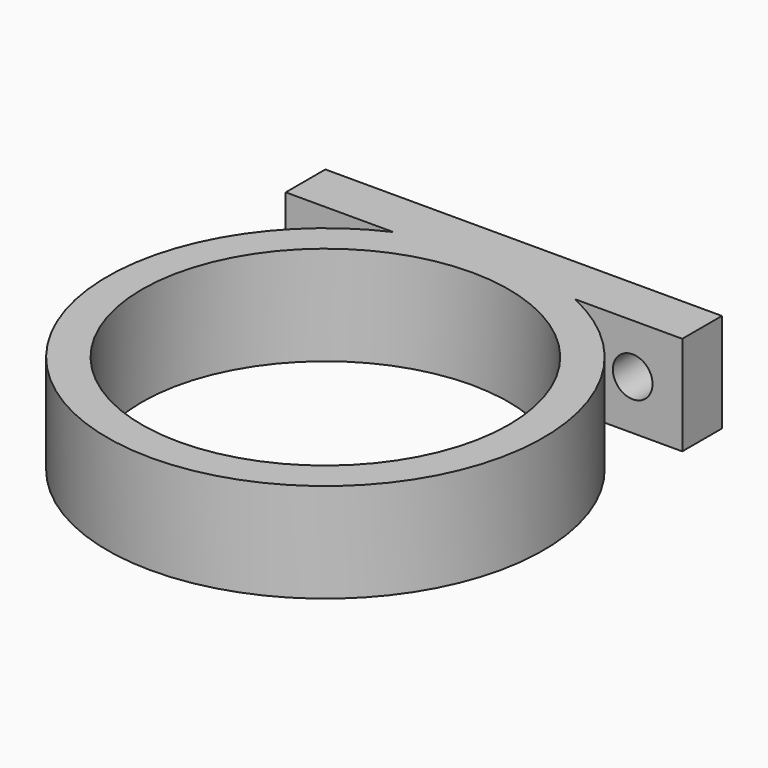
from build123d import *

# Parameters (mm, degrees)
CYLINDER002_R          = 2
CYLINDER002_DEPTH      = 10
CYLINDER002_ROLL_ANGLE = -90
CYLINDER001_R          = 18.5
CYLINDER001_DEPTH      = 10
CYLINDER003_R          = 2
CYLINDER003_DEPTH      = 10
CYLINDER003_ROLL_ANGLE = -90
BOX_W                  = 40
BOX_H                  = 5
BOX_DEPTH              = 10
CYLINDER_R             = 22
CYLINDER_DEPTH         = 10


with BuildPart() as cylinder002:
    # Cylinder002 → Cylinder002 (new body)
    with BuildSketch(Plane.XY):
        Circle(CYLINDER002_R)
    extrude(amount=CYLINDER002_DEPTH)


with BuildPart() as cylinder002_1:
    # Cylinder002 roll: moved
    add(cylinder002.part.rotate(Axis((0, 0, 0), (1, 0, 0)), CYLINDER002_ROLL_ANGLE))


with BuildPart() as cylinder002_2:
    # Cylinder002 placement: moved
    add(cylinder002_1.part.moved(Location((15, 20, 0))))


with BuildPart() as cylinder001:
    # Cylinder001 → Cylinder001 (new body)
    with BuildSketch(Plane.XY.offset(-5)):
        Circle(CYLINDER001_R)
    extrude(amount=CYLINDER001_DEPTH)


with BuildPart() as negative_fusion:
    # Cylinder003 → Cylinder003 (new body)
    with BuildSketch(Plane.XY):
        Circle(CYLINDER003_R)
    extrude(amount=CYLINDER003_DEPTH)


with BuildPart() as negative_fusion_1:
    # Cylinder003 roll: moved
    add(negative_fusion.part.rotate(Axis((0, 0, 0), (1, 0, 0)), CYLINDER003_ROLL_ANGLE))


with BuildPart() as negative_fusion_2:
    # Cylinder003 placement: moved
    add(negative_fusion_1.part.moved(Location((-15, 20, 0))))

    # Fusion001: union Cylinder002, Cylinder001
    add(cylinder002_2.part)
    add(cylinder001.part)


with BuildPart() as cube:
    # Box → Box (new body)
    with BuildSketch(Plane(origin=(-20, 20, -5), x_dir=(1, 0, 0), z_dir=(0, 0, 1))):
        with Locations((20, 2.5)):
            Rectangle(BOX_W, BOX_H)
    extrude(amount=BOX_DEPTH)


with BuildPart() as cut:
    # Cylinder → Cylinder (new body)
    with BuildSketch(Plane.XY.offset(-5)):
        Circle(CYLINDER_R)
    extrude(amount=CYLINDER_DEPTH)

    # Fusion: union Cube
    add(cube.part)

    # Cut: cut Negative Fusion
    add(negative_fusion_2.part, mode=Mode.SUBTRACT)


solid = cut.part
